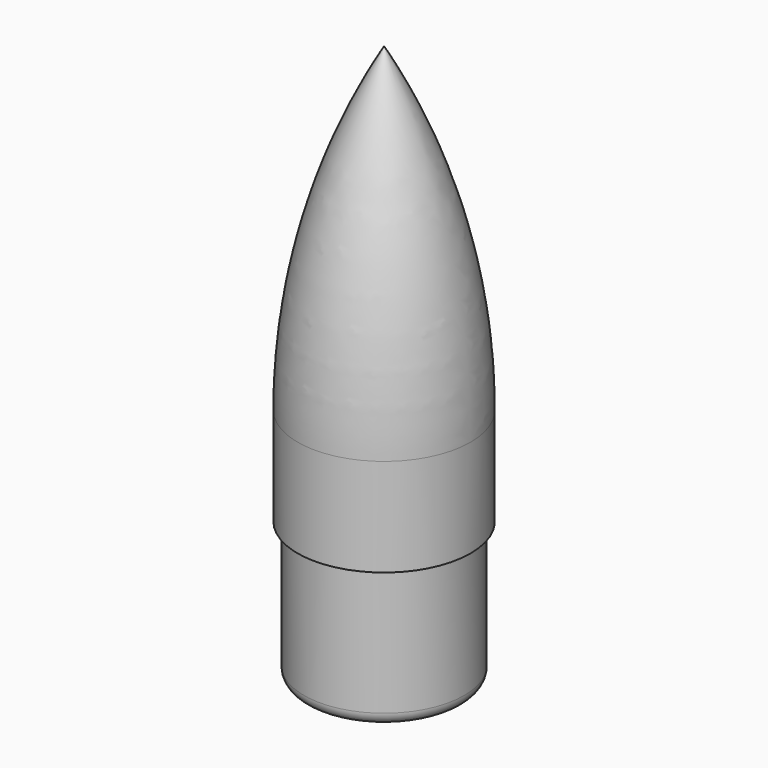
from build123d import *

# Parameters (mm, degrees)
F2_R     = 0.635
F3_DEPTH = 12.7
F4_R     = 2


with BuildPart() as f1:
    # F0 (on Front) → F1 (revolve)
    with BuildSketch(Plane.XZ):
        with BuildLine():
            Line((0, 88.440773), (0, 0))
            Line((0, 0), (12.7, 0))
            Line((12.7, 0), (12.7, 22.137802))
            Line((12.7, 22.137802), (13.7, 22.137802))
            Line((13.7, 22.137802), (13.7, 37.640773))
            ThreePointArc((13.7, 37.640773), (10.214892, 63.948234), (0, 88.440773))
        make_face()
    revolve(axis=Axis((0, 0, -3.848126), (0, 0, -1)))

    # F2 (on face) → F3 (cut)
    with BuildSketch(Plane(origin=(0, 0, 0), x_dir=(1, 0, 0), z_dir=(0, 0, -1))):
        Circle(F2_R)
    extrude(amount=-F3_DEPTH, mode=Mode.SUBTRACT)

    # F4
    f4_edges = [f1.edges().sort_by_distance(p)[0] for p in [
        (-12.7, 0, 0),
    ]]
    fillet(f4_edges, radius=F4_R)


solid = f1.part
